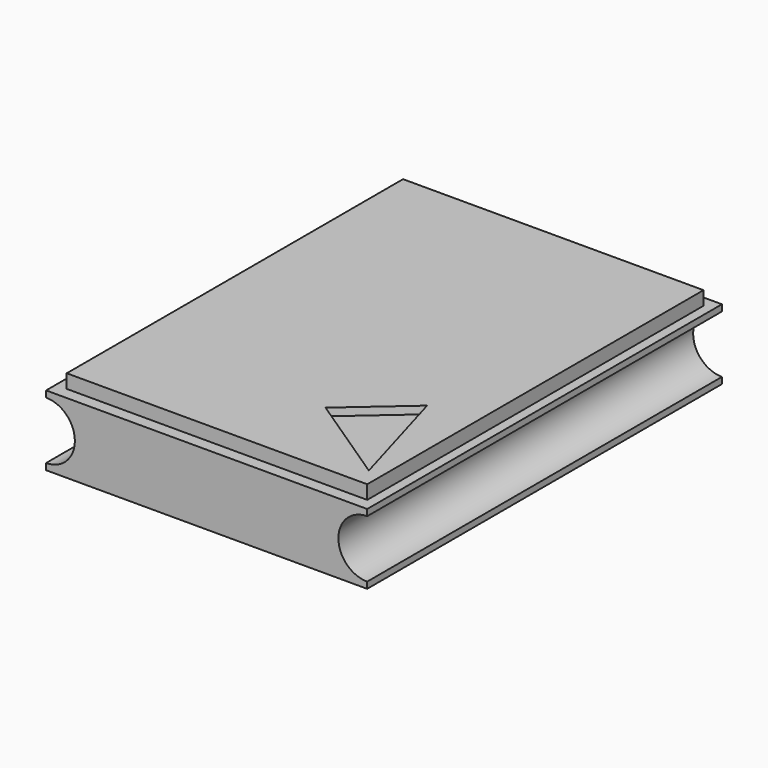
from build123d import *

# Parameters (mm, degrees)
F1_DEPTH = 184.15
F2_W     = 124.7902
F2_H     = 174.5742
F3_DEPTH = 5.715
F5_DEPTH = 3.175


with BuildPart() as f1:
    # F0 (on Front) → F1 (new body)
    with BuildSketch(Plane.XZ):
        with BuildLine():
            Line((0, 2.641868), (0, 0))
            Line((0, 0), (133.35, 0))
            Line((133.35, 0), (133.35, 2.641868))
            ThreePointArc((133.35, 2.641868), (121.39739, 14.594478), (133.35, 26.547088))
            Line((133.35, 26.547088), (133.35, 29.188956))
            Line((133.35, 29.188956), (0, 29.188956))
            Line((0, 29.188956), (0, 26.547088))
            ThreePointArc((0, 26.547088), (11.95261, 14.594478), (0, 2.641868))
        make_face()
    extrude(amount=F1_DEPTH)

    # F2 (on face) → F3 (join)
    with BuildSketch(Plane.XY.offset(29.188956)):
        with Locations((66.9671, -91.8591)):
            Rectangle(F2_W, F2_H)
    extrude(amount=F3_DEPTH)

    # F4 (on face) → F5 (cut)
    with BuildSketch(Plane.XY.offset(34.903956)):
        Polygon((85.200642, -145.579033), (123.752596, -171.298692), (110.021826, -123.877873), align=None)
    extrude(amount=-F5_DEPTH, mode=Mode.SUBTRACT)


solid = f1.part
